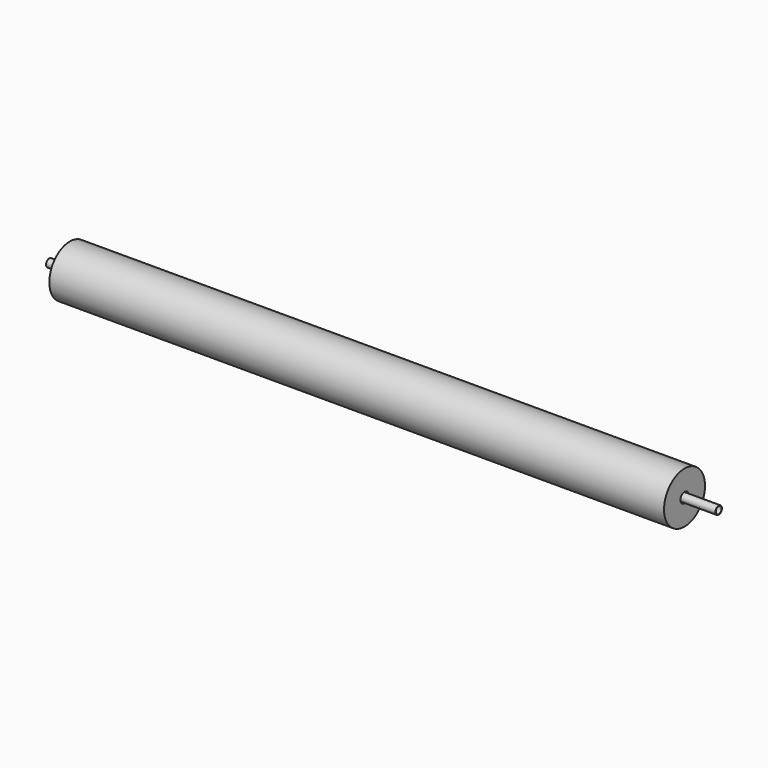
from build123d import *

# Parameters (mm, degrees)
F0_W          = 4572
F0_H          = 152.4
F0_W_2        = 4978.4
F0_H_2        = 3.3782
F2_R          = 8.73125
F3_DEPTH      = 190.501
F3_DEPTH_BACK = 190.501


with BuildPart() as f1:
    # F0 (on Front) → F1 (revolve)
    with BuildSketch(Plane.XZ):
        with Locations((0, 114.3)):
            Rectangle(F0_W, F0_H)
    revolve(axis=Axis((0, 0, 0), (1, 0, 0)))


with BuildPart() as f1b:
    # F0 (on Front) → F1, piece 2 (revolve)
    with BuildSketch(Plane.XZ):
        with Locations((50.8, 28.4734)):
            Rectangle(F0_W_2, F0_H_2)
    revolve(axis=Axis((0, 0, 0), (1, 0, 0)))

    # F2 (on Front) → F3 (cut, two sides)
    with BuildSketch(Plane.XZ) as f3_sk:
        with Locations((-2336.8, 0)):
            Circle(F2_R)
    extrude(amount=-F3_DEPTH, mode=Mode.SUBTRACT)
    extrude(f3_sk.sketch, amount=F3_DEPTH_BACK, mode=Mode.SUBTRACT)


solid = Compound([f1.part, f1b.part])
